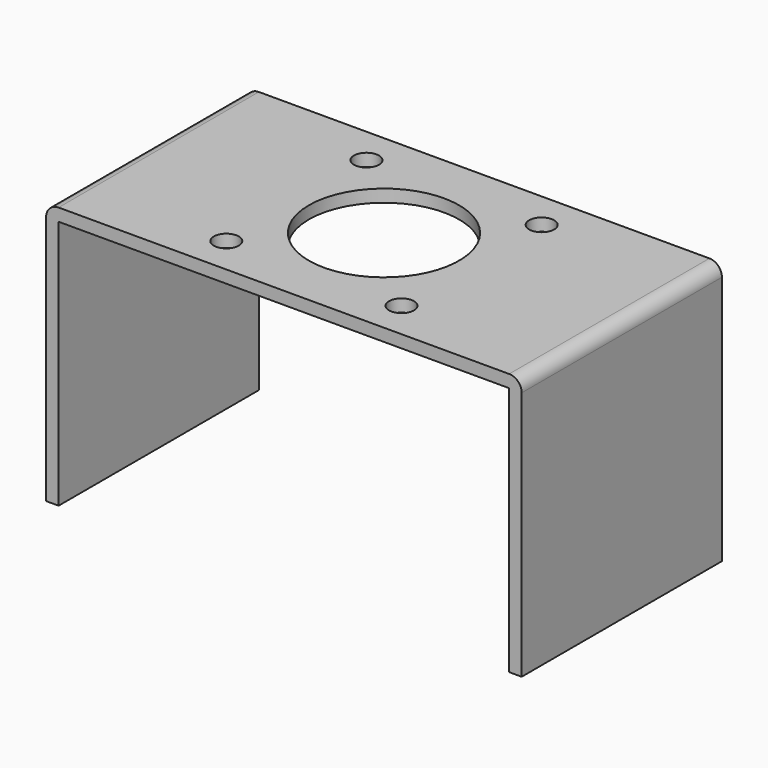
from build123d import *

# Parameters (mm, degrees)
F1_DEPTH = 100
F2_R     = 5
F4_D     = 60
F6_D     = 10


with BuildPart() as f1:
    # F0 (on Front) → F1 (new body)
    with BuildSketch(Plane.XZ):
        Polygon((-109.5206329271, 0), (-104.5206329271, 0), (-104.5206329271, 99.8773593255), (75.4793670729, 99.8773593255), (75.4793670729, 0), (80.4793670729, 0), (80.4793670729, 104.8773593255), (-109.5206329271, 104.8773593255), align=None)
    extrude(amount=F1_DEPTH)

    # F2
    f2_edges = [f1.edges().sort_by_distance(p)[0] for p in [
        (80.479367, -50, 104.877359),
        (-109.520633, -50, 104.877359),
    ]]
    fillet(f2_edges, radius=F2_R)

    # F4 (through all)
    with Locations(Plane(origin=(0, 0, 0), x_dir=(1, 0, 0), z_dir=(0, 0, -1))):
        with Locations((-14.5206329271, 50)):
            Hole(F4_D / 2)

    # F6 (through all)
    with Locations(Plane(origin=(0, 0, 0), x_dir=(1, 0, 0), z_dir=(0, 0, -1))):
        with Locations((-49.5206329271, 15), (20.4793670729, 15), (20.4793670729, 85), (-49.5206329271, 85)):
            Hole(F6_D / 2)


solid = f1.part
